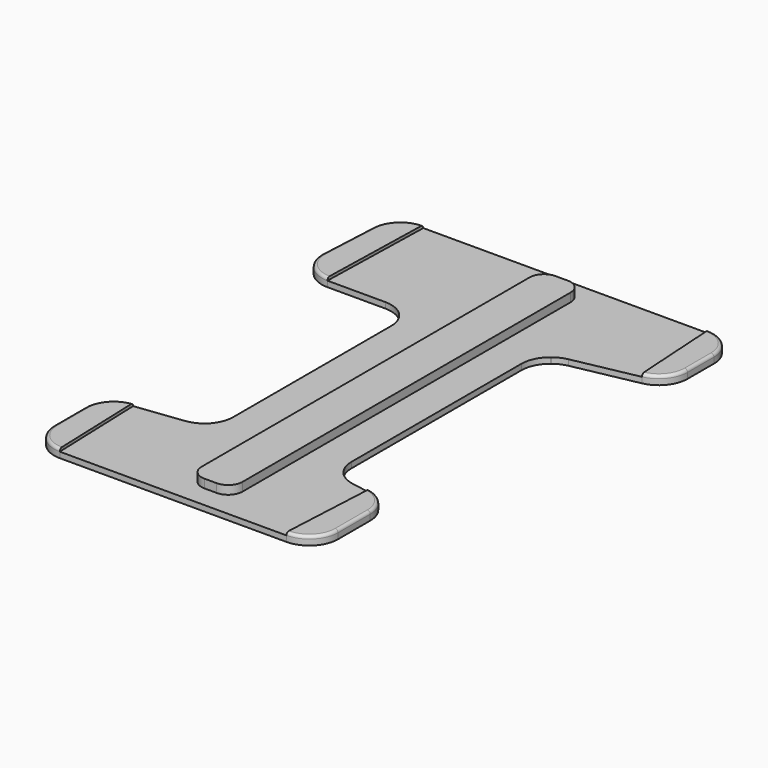
from build123d import *

# Parameters (mm, degrees)
F1_DEPTH = 2
F3_DEPTH = 3
F5_DEPTH = 1
F6_R     = 1


with BuildPart() as f1:
    # F0 (on Top) → F1 (new body)
    with BuildSketch(Plane.XY):
        with BuildLine():
            Line((55.00297, 100.110456), (-44.382804, 100.110456))
            ThreePointArc((-44.382804, 100.110456), (-51.276236, 97.354806), (-54.37049, 90.606577))
            Line((-54.37049, 90.606577), (-55.390746, 70.067208))
            ThreePointArc((-55.390746, 70.067208), (-52.64741, 62.677656), (-45.40306, 59.571087))
            Line((-45.40306, 59.571087), (-25.153022, 59.571087))
            ThreePointArc((-25.153022, 59.571087), (-18.081955, 56.642155), (-15.153022, 49.571087))
            Line((-15.153022, 49.571087), (-15.153022, -19.336576))
            ThreePointArc((-15.153022, -19.336576), (-17.669577, -25.969679), (-23.952632, -29.264268))
            Line((-23.952632, -29.264268), (-40.499641, -31.265022))
            ThreePointArc((-40.499641, -31.265022), (-46.782696, -34.559611), (-49.299251, -41.192713))
            Line((-49.299251, -41.192713), (-49.299251, -54.753145))
            ThreePointArc((-49.299251, -54.753145), (-46.370319, -61.824213), (-39.299251, -64.753145))
            Line((-39.299251, -64.753145), (39.760375, -64.753145))
            ThreePointArc((39.760375, -64.753145), (46.831443, -61.824213), (49.760375, -54.753145))
            Line((49.760375, -54.753145), (49.760375, -40.710986))
            ThreePointArc((49.760375, -40.710986), (47.424223, -34.287168), (41.507289, -30.864753))
            Line((41.507289, -30.864753), (34.742437, -29.664537))
            ThreePointArc((34.742437, -29.664537), (28.825503, -26.242122), (26.489351, -19.818304))
            Line((26.489351, -19.818304), (26.489351, 54.364799))
            ThreePointArc((26.489351, 54.364799), (27.48312, 58.710809), (30.26691, 62.193032))
            Line((30.26691, 62.193032), (30.519926, 62.394148))
            ThreePointArc((30.519926, 62.394148), (32.537261, 63.638791), (34.790872, 64.37365))
            Line((34.790872, 64.37365), (56.954466, 68.783654))
            ThreePointArc((56.954466, 68.783654), (62.733266, 72.247689), (65.00297, 78.591389))
            Line((65.00297, 78.591389), (65.00297, 90.110456))
            ThreePointArc((65.00297, 90.110456), (62.074038, 97.181524), (55.00297, 100.110456))
        make_face()
    extrude(amount=F1_DEPTH)

    # F2 (on face) → F3 (join)
    with BuildSketch(Plane.XY.offset(2)):
        with BuildLine():
            ThreePointArc((5, 95.998436), (1.464466, 94.53397), (0, 90.998436))
            Line((0, 90.998436), (0, -52.06298))
            ThreePointArc((0, -52.06298), (1.464466, -55.598514), (5, -57.06298))
            Line((5, -57.06298), (9.289023, -57.06298))
            ThreePointArc((9.289023, -57.06298), (12.824557, -55.598514), (14.289023, -52.06298))
            Line((14.289023, -52.06298), (14.289023, 90.998436))
            ThreePointArc((14.289023, 90.998436), (12.824557, 94.53397), (9.289023, 95.998436))
            Line((9.289023, 95.998436), (5, 95.998436))
        make_face()
    extrude(amount=F3_DEPTH)

    # F4 (on face) → F5 (join)
    with BuildSketch(Plane.XY.offset(2)):
        with BuildLine():
            Line((-39.299251, -64.753145), (-40.499641, -31.265022))
            ThreePointArc((-40.499641, -31.265022), (-46.782696, -34.559611), (-49.299251, -41.192713))
            Line((-49.299251, -41.192713), (-49.299251, -54.753145))
            ThreePointArc((-49.299251, -54.753145), (-46.370319, -61.824213), (-39.299251, -64.753145))
        make_face()
        with BuildLine():
            Line((41.507289, -30.864753), (39.760375, -64.753145))
            ThreePointArc((39.760375, -64.753145), (46.831443, -61.824213), (49.760375, -54.753145))
            Line((49.760375, -54.753145), (49.760375, -40.710986))
            ThreePointArc((49.760375, -40.710986), (47.424223, -34.287168), (41.507289, -30.864753))
        make_face()
        with BuildLine():
            Line((-45.40306, 59.571087), (-44.382804, 100.110456))
            ThreePointArc((-44.382804, 100.110456), (-51.276236, 97.354806), (-54.37049, 90.606577))
            Line((-54.37049, 90.606577), (-55.390746, 70.067208))
            ThreePointArc((-55.390746, 70.067208), (-52.64741, 62.677656), (-45.40306, 59.571087))
        make_face()
        with BuildLine():
            ThreePointArc((65.00297, 90.110456), (62.074038, 97.181524), (55.00297, 100.110456))
            Line((55.00297, 100.110456), (56.954466, 68.783654))
            ThreePointArc((56.954466, 68.783654), (62.733266, 72.247689), (65.00297, 78.591389))
            Line((65.00297, 78.591389), (65.00297, 90.110456))
        make_face()
    extrude(amount=F5_DEPTH)

    # F6
    f6_edges = [f1.edges().sort_by_distance(p)[0] for p in [
        (46.831443, -61.824213, 3),
        (49.760375, -47.732065, 3),
        (47.424223, -34.287168, 3),
        (-49.299251, -47.972929, 3),
        (-46.782696, -34.559611, 3),
        (-54.880618, 80.336892, 3),
        (65.00297, 84.350923, 3),
    ]]
    fillet(f6_edges, radius=F6_R)


solid = f1.part
